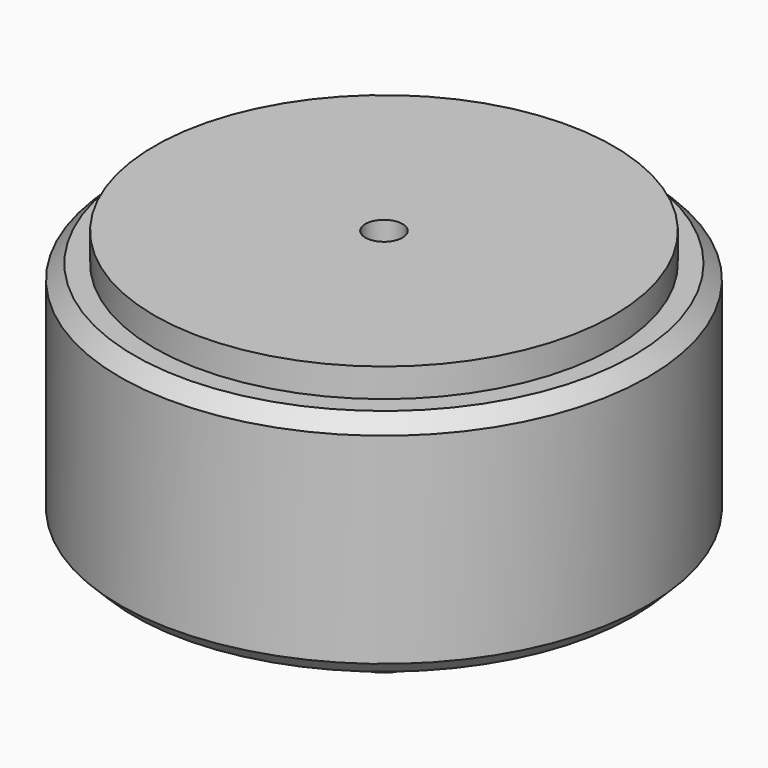
from build123d import *

# Parameters (mm, degrees)
F3_D     = 2.0574
F5_D     = 3
F5_DEPTH = 19.05
F5_TIP   = 0.9012909285
F6_SIZE  = 0.396875
F7_SIZE  = 0.79375
F9_D     = 3.4544
F9_DEPTH = 10.16
F9_TIP   = 1.0378064612


with BuildPart() as f1:
    # F0 (on Front) → F1 (revolve)
    with BuildSketch(Plane.XZ):
        Polygon((12.7, 0), (0, 0), (0, -20.6375), (2.1082, -20.6375), (2.1082, -15.875), (6.35, -15.875), (6.35, -14.2875), (14.605, -14.2875), (14.605, -1.5875), (12.7, -1.5875), align=None)
    revolve(axis=Axis((0, 0, -10.31875), (0, 0, 1)))

    # F3 (through all)
    with Locations(Plane.XY):
        with Locations((0, 0)):
            Hole(F3_D / 2)

    # F5
    with Locations(Plane(origin=(0, 0, -20.6375), x_dir=(1, 0, 0), z_dir=(0, 0, -1))):
        with Locations((0, 0)):
            Hole(F5_D / 2, depth=F5_DEPTH)
            with Locations((0, 0, -(F5_DEPTH + F5_TIP / 2))):  # 118° drill point
                Cone(0, F5_D / 2, F5_TIP, mode=Mode.SUBTRACT)

    # F6
    f6_edges = [f1.edges().sort_by_distance(p)[0] for p in [
        (-2.1082, 0, -20.6375),
    ]]
    chamfer(f6_edges, length=F6_SIZE)

    # F7
    f7_edges = [f1.edges().sort_by_distance(p)[0] for p in [
        (-14.605, 0, -1.5875),
        (-14.605, 0, -14.2875),
    ]]
    chamfer(f7_edges, length=F7_SIZE)

    # F9
    with Locations(Plane(origin=(0, 0, -14.2875), x_dir=(1, 0, 0), z_dir=(0, 0, -1))):
        with Locations((-9.525000882, 0), (9.524999118, 0)):
            Hole(F9_D / 2, depth=F9_DEPTH)
            with Locations((0, 0, -(F9_DEPTH + F9_TIP / 2))):  # 118° drill point
                Cone(0, F9_D / 2, F9_TIP, mode=Mode.SUBTRACT)


solid = f1.part
